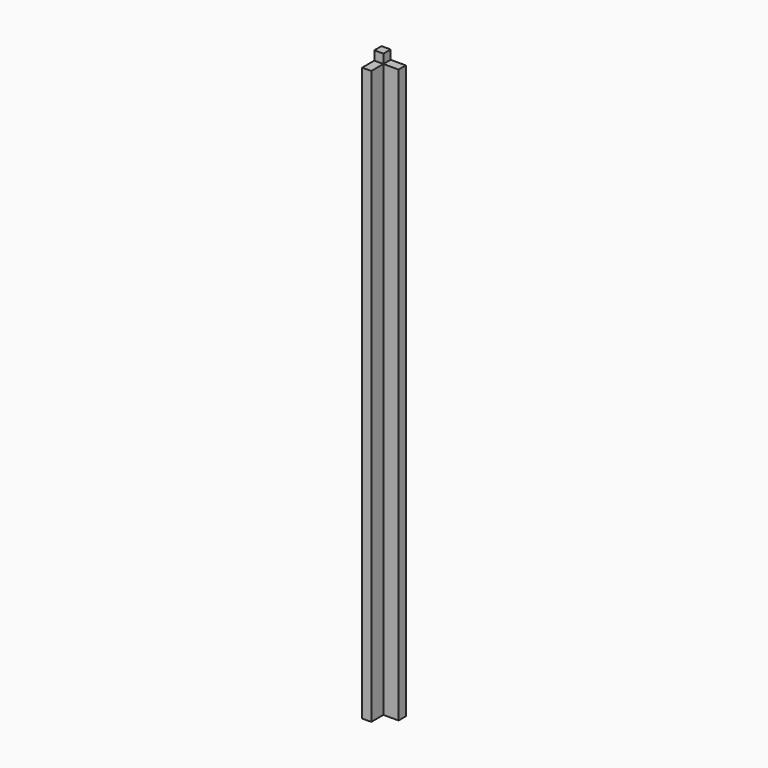
from build123d import *

# Parameters (mm, degrees)
F0_W     = 50.8
F0_H     = 50.8
F1_DEPTH = 1219.2
F3_DEPTH = 19.05
F4_W     = 31.75
F4_H     = 31.75
F5_DEPTH = 1200.151


with BuildPart() as f1:
    # F0 (on Top) → F1 (new body)
    with BuildSketch(Plane.XY):
        with Locations((25.4, 25.4)):
            Rectangle(F0_W, F0_H)
    extrude(amount=-F1_DEPTH)

    # F2 (on face) → F3 (cut)
    with BuildSketch(Plane.XY):
        Polygon((19.05, 31.75), (0, 31.75), (0, 0), (50.8, 0), (50.8, 50.8), (19.05, 50.8), align=None)
    extrude(amount=-F3_DEPTH, mode=Mode.SUBTRACT)

    # F4 (on face) → F5 (cut, through all)
    with BuildSketch(Plane.XY.offset(-19.05)):
        with Locations((34.925, 15.875)):
            Rectangle(F4_W, F4_H)
    extrude(amount=-F5_DEPTH, mode=Mode.SUBTRACT)


solid = f1.part
